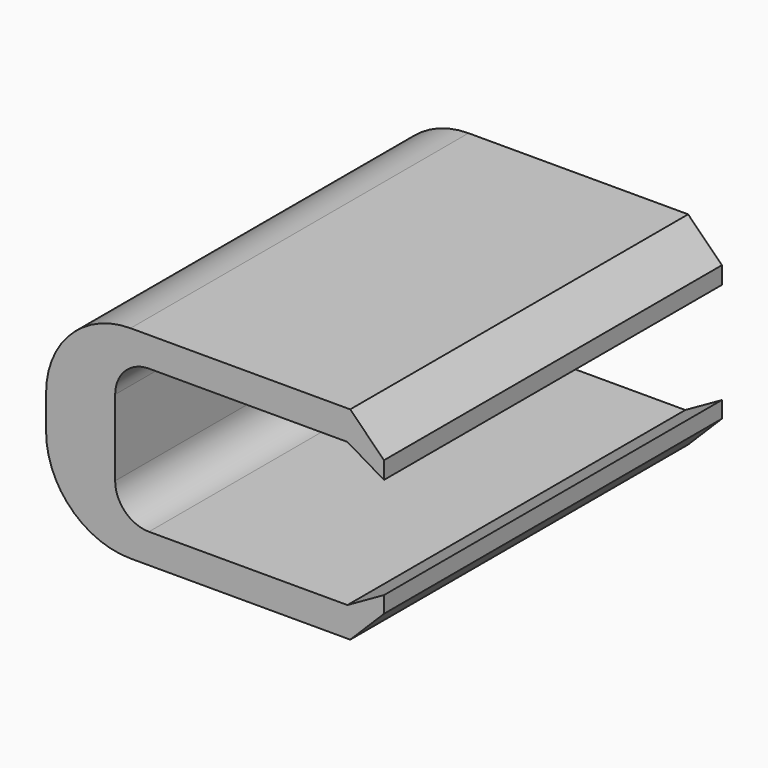
from build123d import *

# Parameters (mm, degrees)
F0_W     = 20
F0_H     = 12
F1_DEPTH = 25
F2_R     = 5
F3_SIZE  = 2
F5_DEPTH = 25
F6_R     = 2


with BuildPart() as f1:
    # F0 (on Front) → F1 (new body)
    with BuildSketch(Plane.XZ):
        Rectangle(F0_W, F0_H)
    extrude(amount=F1_DEPTH)

    # F2
    f2_edges = [f1.edges().sort_by_distance(p)[0] for p in [
        (-10, -12.5, 6),
        (-10, -12.5, -6),
    ]]
    fillet(f2_edges, radius=F2_R)

    # F3
    f3_edges = [f1.edges().sort_by_distance(p)[0] for p in [
        (10, -12.5, 6),
        (10, -12.5, -6),
    ]]
    chamfer(f3_edges, length=F3_SIZE)

    # F4 (on face) → F5 (cut)
    with BuildSketch(Plane.XZ.offset(25)):
        Polygon((10, -3.026532), (10, 2.973468), (7.834282, 4.25), (-5.911483, 4.25), (-5.911483, -4.25), (7.834282, -4.25), align=None)
    extrude(amount=-F5_DEPTH, mode=Mode.SUBTRACT)

    # F6
    f6_edges = [f1.edges().sort_by_distance(p)[0] for p in [
        (-5.911483, -12.5, -4.25),
        (-5.911483, -12.5, 4.25),
    ]]
    fillet(f6_edges, radius=F6_R)


solid = f1.part
